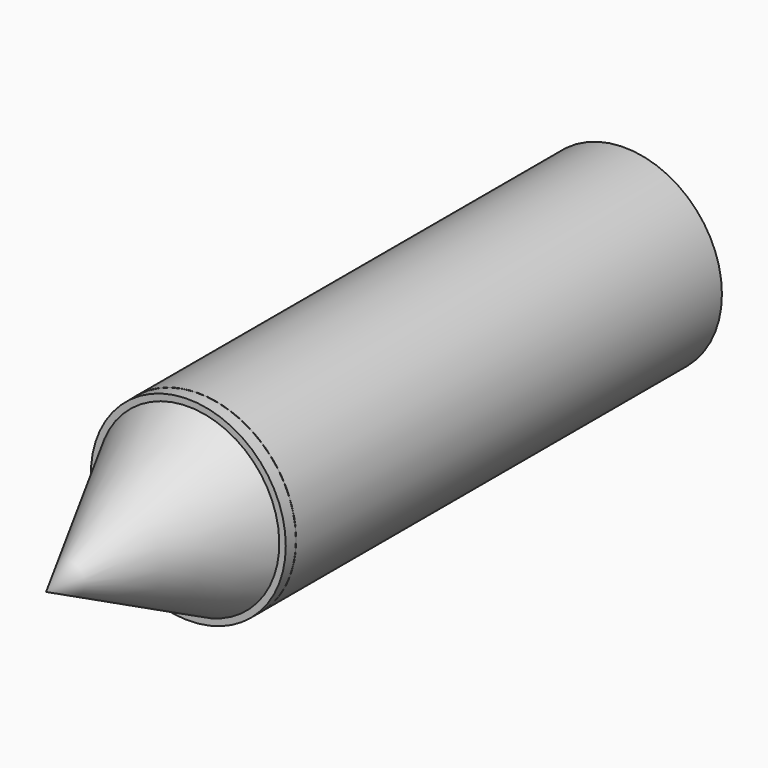
from build123d import *

# Parameters (mm, degrees)
F0_R        = 10.011227
F0_R_2      = 7.627377
F2_DEPTH    = 25
F2_FACE_R   = 10.011227
F2_FACE_R_2 = 7.627377
F5_DEPTH    = 6


with BuildPart() as f2:
    # F0 (on Front) → F2 (new body, symmetric)
    with BuildSketch(Plane.XZ):
        Circle(F0_R)
        Circle(F0_R_2, mode=Mode.SUBTRACT)
    extrude(amount=F2_DEPTH, both=True)

    # F3 (on Right) → F4 (revolve)
    with BuildSketch(Plane.YZ):
        Polygon((-23.677679, -10.02051), (-23.677679, -7.532166), (-38.399562, 0), (-43.263118, 0), align=None)
    revolve(axis=Axis((0, -31.038621, 0), (0, 1, 0)))

    # F2_face (on face) → F5 (join)
    with BuildSketch(Plane(origin=(0, 25, 0), x_dir=(1, 0, 0), z_dir=(0, 1, 0))):
        Circle(F2_FACE_R)
        Circle(F2_FACE_R_2, mode=Mode.SUBTRACT)
    extrude(amount=F5_DEPTH)


solid = f2.part
